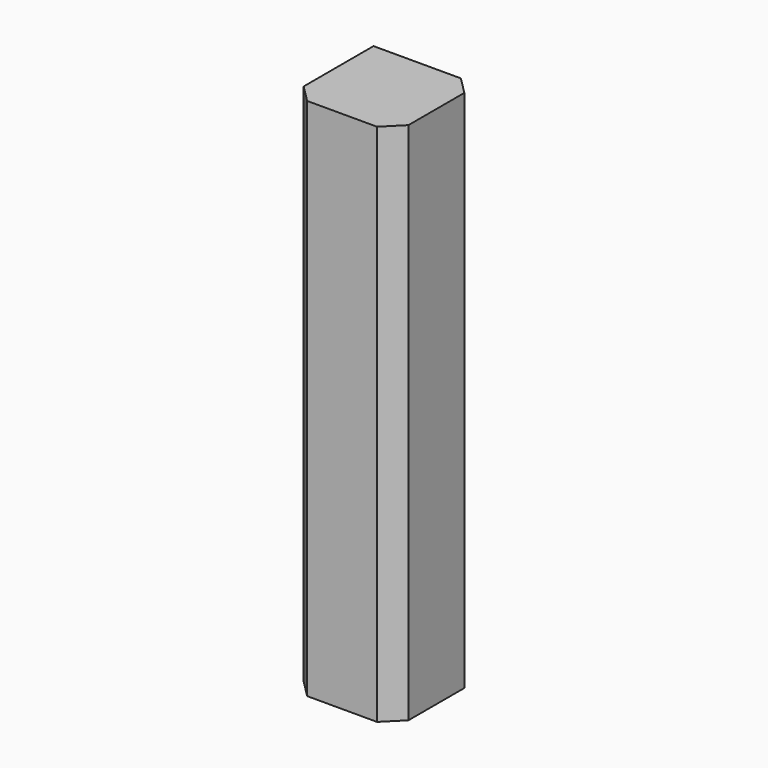
from build123d import *

# Parameters (mm, degrees)
F0_W     = 30
F0_H     = 30
F1_DEPTH = 150
F2_SIZE  = 5


with BuildPart() as f1:
    # F0 (on Top) → F1 (new body)
    with BuildSketch(Plane.XY):
        with Locations((15, 15)):
            Rectangle(F0_W, F0_H)
    extrude(amount=-F1_DEPTH)

    # F2
    f2_edges = [f1.edges().sort_by_distance(p)[0] for p in [
        (30, 30, -75),
        (30, 0, -75),
        (0, 0, -75),
    ]]
    chamfer(f2_edges, length=F2_SIZE)


solid = f1.part
